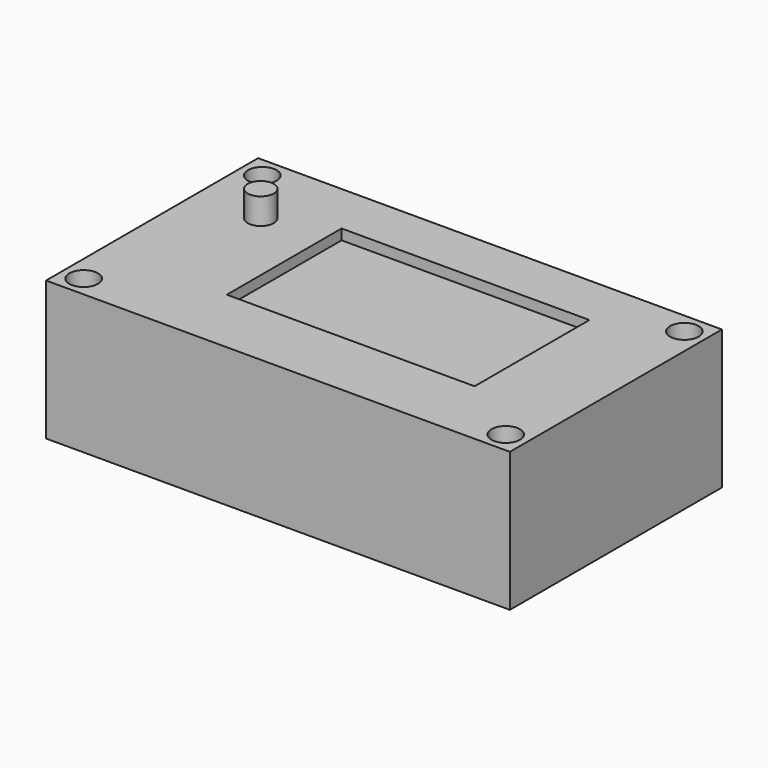
from build123d import *

# Parameters (mm, degrees)
F0_W           = 177.8
F0_H           = 101.6
F1_DEPTH       = 53.34
F2_W           = 95
F2_H           = 55
F3_DEPTH       = 4
F4_D           = 7
F4_CBORE_D     = 11
F4_CBORE_DEPTH = 6.35
F2_R           = 5
F5_DEPTH       = 10


with BuildPart() as f1:
    # F0 (on Top) → F1 (new body)
    with BuildSketch(Plane.XY):
        with Locations((0.284396, 7.146878)):
            Rectangle(F0_W, F0_H)
    extrude(amount=F1_DEPTH)

    # F2 (on face) → F3 (cut)
    with BuildSketch(Plane.XY.offset(53.34)):
        with Locations((6.884396, 10.446878)):
            Rectangle(F2_W, F2_H)
    extrude(amount=-F3_DEPTH, mode=Mode.SUBTRACT)

    # F4 (through all)
    with Locations(Plane.XY.offset(53.34)):
        with Locations((-80.615604, 49.946878), (-80.615604, -35.653122), (81.184396, -35.653122), (81.184396, 49.946878)):
            CounterBoreHole(F4_D / 2, F4_CBORE_D / 2, F4_CBORE_DEPTH)

    # F2 (on face) → F5 (join)
    with BuildSketch(Plane.XY.offset(53.34)):
        with Locations((-63.615604, 27.946878)):
            Circle(F2_R)
    extrude(amount=F5_DEPTH)


solid = f1.part
